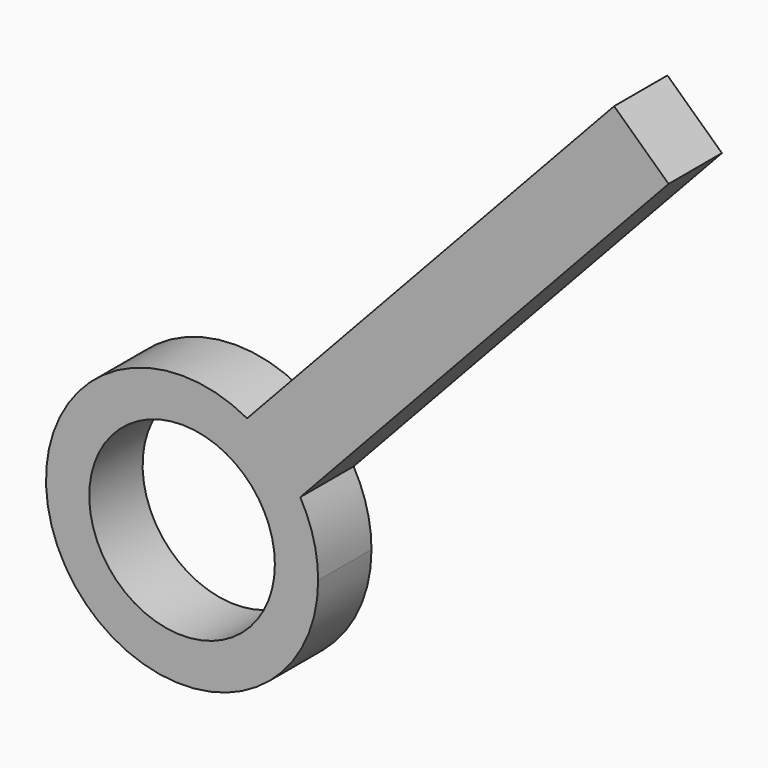
from build123d import *

# Parameters (mm, degrees)
F1_DEPTH = 3.175


with BuildPart() as f1:
    # F0 (on Front) → F1 (new body, symmetric)
    with BuildSketch(Plane.XZ):
        with BuildLine():
            ThreePointArc((6.19586, 11.38227), (9.072747, 9.253649), (11.257744, 6.419342))
            Line((11.257744, 6.419342), (46.32912, 44.087017))
            Line((46.32912, 44.087017), (41.142583, 48.916064))
            Line((41.142583, 48.916064), (6.19586, 11.38227))
        make_face()
        with BuildLine():
            ThreePointArc((6.19586, 11.38227), (-11.140895, -6.620062), (12.95935, 0))
            ThreePointArc((12.95935, 0), (12.526728, 3.32052), (11.257744, 6.419342))
            ThreePointArc((11.257744, 6.419342), (9.072747, 9.253649), (6.19586, 11.38227))
        make_face()
        with BuildLine():
            ThreePointArc((8.838156, 0), (-7.308916, -4.96918), (3.250395, 8.218755))
            ThreePointArc((3.250395, 8.218755), (7.308916, 4.96918), (8.838156, 0))
        make_face(mode=Mode.SUBTRACT)
    extrude(amount=F1_DEPTH, both=True)


solid = f1.part
